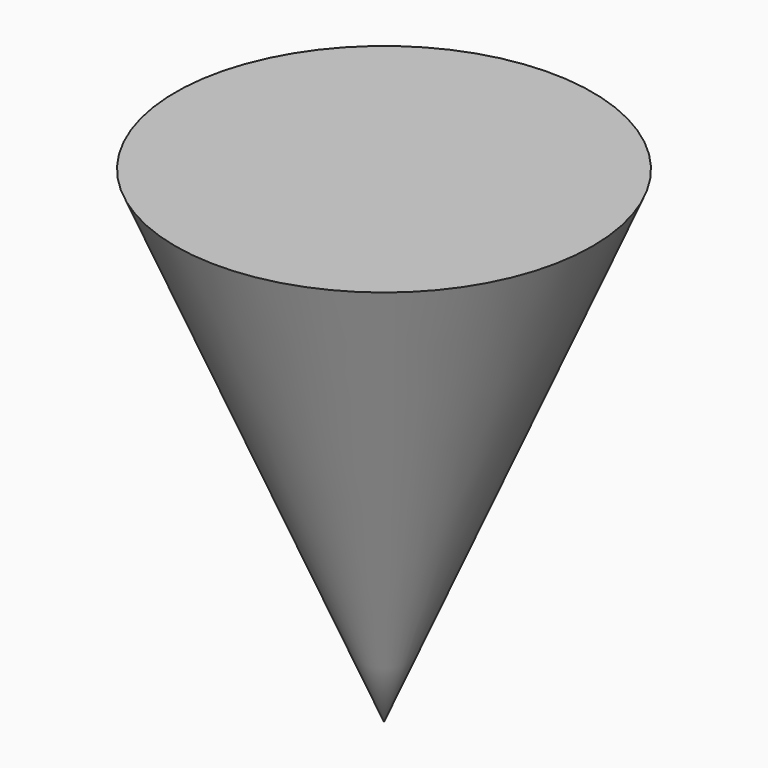
from build123d import *


with BuildPart() as f1:
    # F0 (on Front) → F1 (revolve)
    with BuildSketch(Plane.XZ):
        Polygon((76.2, 88.900004), (0, 88.900004), (0, -88.899996), align=None)
    revolve(axis=Axis((0, 0, 4e-06), (0, 0, -1)))


solid = f1.part
